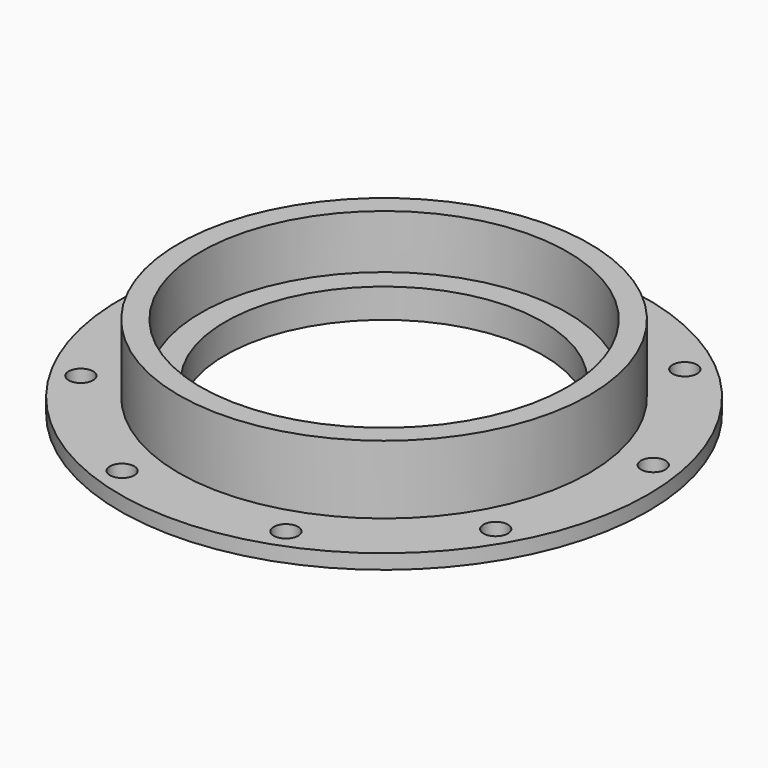
from build123d import *

# Parameters (mm, degrees)
SKETCH_R      = 54
SKETCH_R_2    = 32.5
SKETCH_R_3    = 2.5
PAD_DEPTH     = 3
SKETCH002_R   = 42
SKETCH002_R_2 = 37.5
PAD002_DEPTH  = 14
SKETCH003_R   = 37.5
SKETCH003_R_2 = 32.5
PAD003_DEPTH  = 3


with BuildPart() as part:
    # Sketch → Pad (new body)
    with BuildSketch(Plane.XY):
        Circle(SKETCH_R)
        Circle(SKETCH_R_2, mode=Mode.SUBTRACT)
        with Locations((0, 49)):
            Circle(SKETCH_R_3, mode=Mode.SUBTRACT)
        with Locations((48.25558, 8.508761)):
            Circle(SKETCH_R_3, mode=Mode.SUBTRACT)
        with Locations((42.435245, -24.5)):
            Circle(SKETCH_R_3, mode=Mode.SUBTRACT)
        with Locations((16.758987, -46.044938)):
            Circle(SKETCH_R_3, mode=Mode.SUBTRACT)
        with Locations((-16.758987, -46.044938)):
            Circle(SKETCH_R_3, mode=Mode.SUBTRACT)
        with Locations((-42.435245, -24.5)):
            Circle(SKETCH_R_3, mode=Mode.SUBTRACT)
        with Locations((-48.25558, 8.508761)):
            Circle(SKETCH_R_3, mode=Mode.SUBTRACT)
        with Locations((-31.496593, 37.536178)):
            Circle(SKETCH_R_3, mode=Mode.SUBTRACT)
        with Locations((31.496593, 37.536178)):
            Circle(SKETCH_R_3, mode=Mode.SUBTRACT)
    extrude(amount=PAD_DEPTH)

    # Sketch002 → Pad002 (join)
    with BuildSketch(Plane.XY.offset(3)):
        Circle(SKETCH002_R)
        Circle(SKETCH002_R_2, mode=Mode.SUBTRACT)
    extrude(amount=PAD002_DEPTH)

    # Sketch003 (on Face15 of Pad002) → Pad003 (join)
    with BuildSketch(Plane.XY.offset(3)):
        Circle(SKETCH003_R)
        Circle(SKETCH003_R_2, mode=Mode.SUBTRACT)
    extrude(amount=PAD003_DEPTH)


solid = part.part
